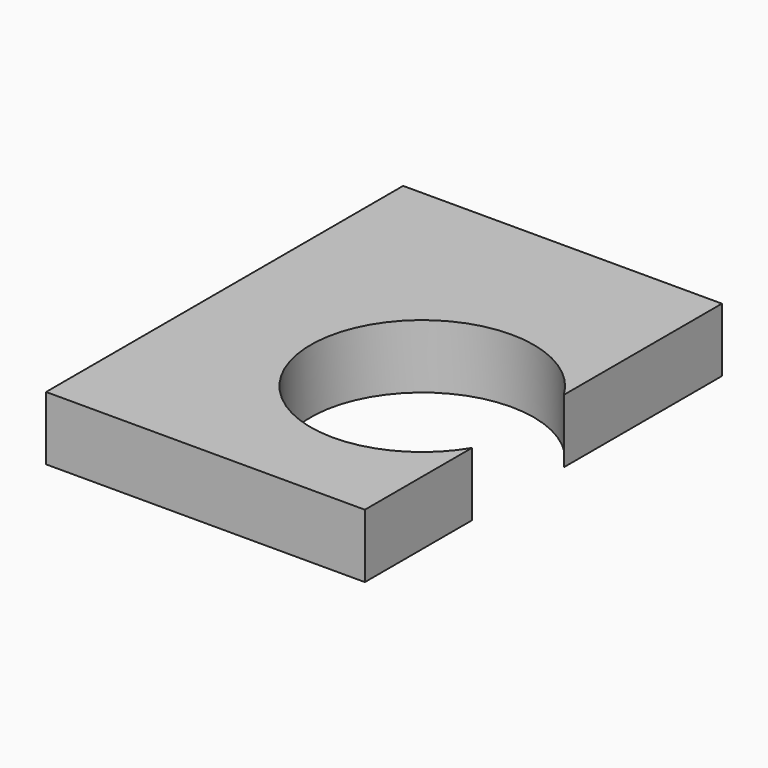
from build123d import *

# Parameters (mm, degrees)
F2_DEPTH = 25.4
F3_DEPTH = 25.401


with BuildPart() as f2:
    # F1 (on Top) → F2 (new body)
    with BuildSketch(Plane.XY):
        with BuildLine():
            Line((63.5, 88.9), (-63.5, 88.9))
            Line((-63.5, 88.9), (-63.5, -88.9))
            Line((-63.5, -88.9), (63.5, -88.9))
            Line((63.5, -88.9), (63.5, -35.5952505992))
            ThreePointArc((63.5, -35.5952505992), (-19.05, -12.7), (63.5, 10.1952505992))
            Line((63.5, 10.1952505992), (63.5, 88.9))
        make_face()
        with BuildLine():
            Line((63.5, -35.5952505992), (63.5, 10.1952505992))
            ThreePointArc((63.5, 10.1952505992), (-19.05, -12.7), (63.5, -35.5952505992))
        make_face()
    extrude(amount=F2_DEPTH)

    # F1 (on Top) → F3 (cut, through all)
    with BuildSketch(Plane.XY):
        with BuildLine():
            Line((63.5, -35.5952505992), (63.5, 10.1952505992))
            ThreePointArc((63.5, 10.1952505992), (-19.05, -12.7), (63.5, -35.5952505992))
        make_face()
    extrude(amount=F3_DEPTH, mode=Mode.SUBTRACT)


solid = f2.part
